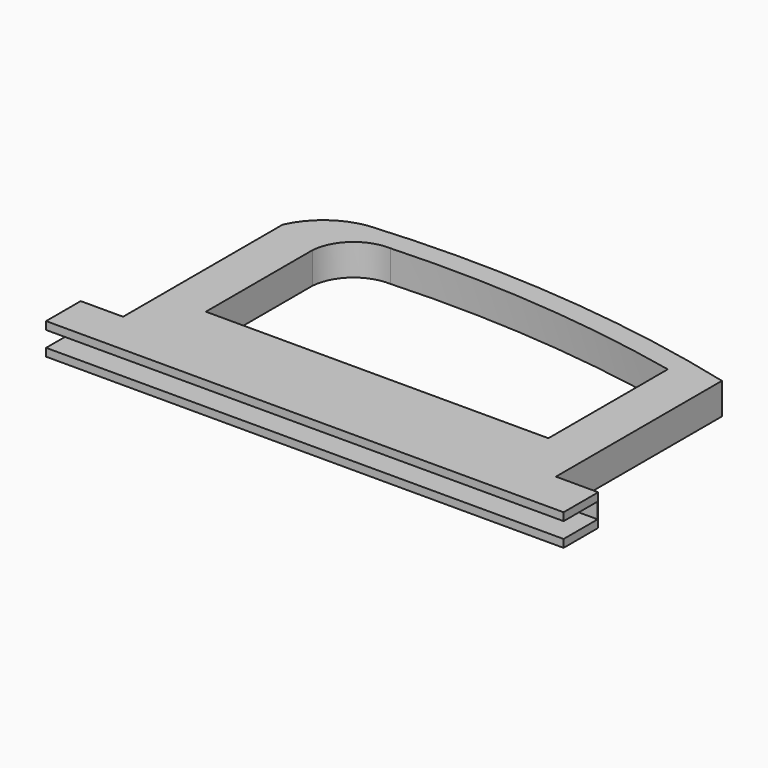
from build123d import *

# Parameters (mm, degrees)
F0_W     = 8.57504
F0_H     = 8.763
F0_W_2   = 8.56996
F1_DEPTH = 6.35
F2_W     = 104.775
F2_H     = 3.175
F3_DEPTH = 8.6106


with BuildPart() as f1:
    # F0 (on Top) → F1 (new body)
    with BuildSketch(Plane.XY):
        with Locations((-4.28752, 4.3815)):
            Rectangle(F0_W, F0_H)
        with BuildLine():
            Line((0, 8.763), (0, 0))
            Line((0, 0), (87.63, 0))
            Line((87.63, 0), (87.63, 8.763))
            Line((87.63, 8.763), (87.63, 18.288))
            Line((87.63, 18.288), (87.63, 50.77453))
            ThreePointArc((87.63, 50.77453), (49.462914, 57.239683), (10.752161, 57.287836))
            ThreePointArc((10.752161, 57.287836), (4.343582, 54.59828), (0, 49.172703))
            Line((0, 49.172703), (0, 18.288))
            Line((0, 18.288), (0, 8.763))
        make_face()
        with BuildLine():
            Line((78.486, 18.288), (9.144, 18.288))
            Line((9.144, 18.288), (9.144, 45.242749))
            ThreePointArc((9.144, 45.242749), (12.091924, 51.224816), (18.373285, 53.465328))
            ThreePointArc((18.373285, 53.465328), (48.594074, 52.979261), (78.486, 48.50655))
            Line((78.486, 48.50655), (78.486, 18.288))
        make_face(mode=Mode.SUBTRACT)
        with Locations((91.91498, 4.3815)):
            Rectangle(F0_W_2, F0_H)
    extrude(amount=F1_DEPTH)

    # F2 (on face) → F3 (cut)
    with BuildSketch(Plane.XZ):
        with Locations((43.81246, 3.175)):
            Rectangle(F2_W, F2_H)
    extrude(amount=-F3_DEPTH, mode=Mode.SUBTRACT)


solid = f1.part
